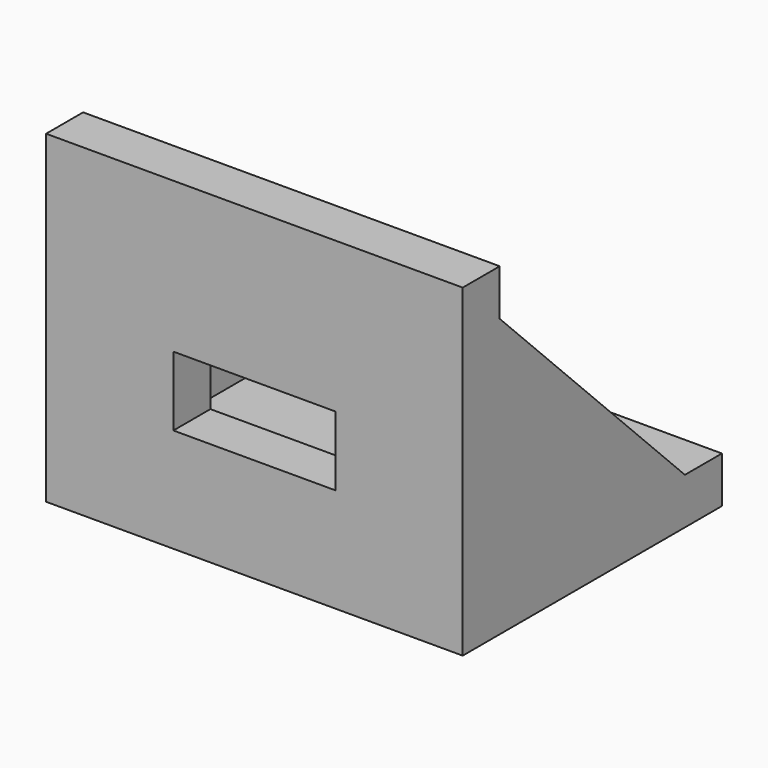
from build123d import *

# Parameters (mm, degrees)
F0_W     = 10
F0_H     = 15
F0_W_2   = 15
F0_H_2   = 10
F1_DEPTH = 45
F2_DEPTH = 35
F3_DEPTH = 17.5
F4_DEPTH = 7.5


with BuildPart() as f1:
    # F0 (on Right) → F1 (new body, symmetric)
    with BuildSketch(Plane.YZ):
        Polygon((0, 70), (0, 37.5), (10, 37.5), (10, 60), (10, 70), align=None)
        with Locations((5, 30)):
            Rectangle(F0_W, F0_H)
        Polygon((0, 22.5), (0, 0), (37.5, 0), (37.5, 10), (10, 10), (10, 22.5), align=None)
        Polygon((10, 37.5), (10, 22.5), (10, 10), (37.5, 10), (52.5, 10), (60, 10), (10, 60), align=None)
        with Locations((45, 5)):
            Rectangle(F0_W_2, F0_H_2)
        Polygon((52.5, 10), (52.5, 0), (70, 0), (70, 10), (60, 10), align=None)
    extrude(amount=F1_DEPTH, both=True)

    # F0 (on Right) → F2 (cut, symmetric)
    with BuildSketch(Plane.YZ):
        Polygon((10, 37.5), (10, 22.5), (10, 10), (37.5, 10), (52.5, 10), (60, 10), (10, 60), align=None)
    extrude(amount=F2_DEPTH, both=True, mode=Mode.SUBTRACT)

    # F0 (on Right) → F3 (cut, symmetric)
    with BuildSketch(Plane.YZ):
        with Locations((5, 30)):
            Rectangle(F0_W, F0_H)
    extrude(amount=F3_DEPTH, both=True, mode=Mode.SUBTRACT)

    # F0 (on Right) → F4 (cut, symmetric)
    with BuildSketch(Plane.YZ):
        with Locations((45, 5)):
            Rectangle(F0_W_2, F0_H_2)
    extrude(amount=F4_DEPTH, both=True, mode=Mode.SUBTRACT)


solid = f1.part
